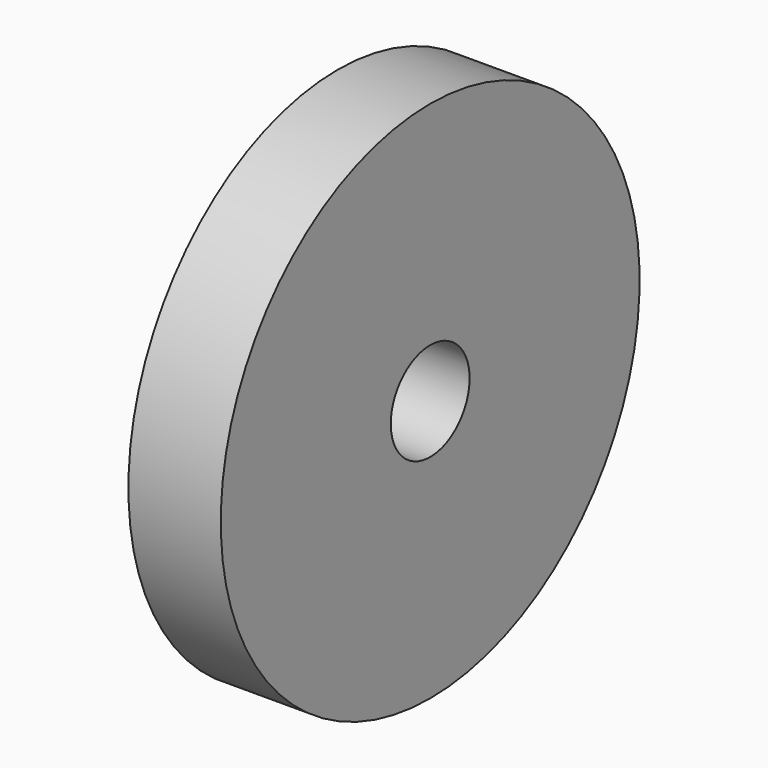
from build123d import *


with BuildPart() as f1:
    # F0 (on Front) → F1 (revolve)
    with BuildSketch(Plane.XZ):
        with BuildLine():
            Line((-11, 0), (-8, 0))
            Line((-8, 0), (-8, 6))
            Line((-8, 6), (-5, 6))
            Line((-5, 6), (-5, 3.2))
            Line((-5, 3.2), (0, 3.2))
            Line((0, 3.2), (0, 17))
            Line((0, 17), (-6, 17))
            ThreePointArc((-6, 17), (-9.724077, 8.860023), (-11, 0))
        make_face()
    revolve(axis=Axis((-5.5, 0, 0), (-1, 0, 0)))


solid = f1.part
